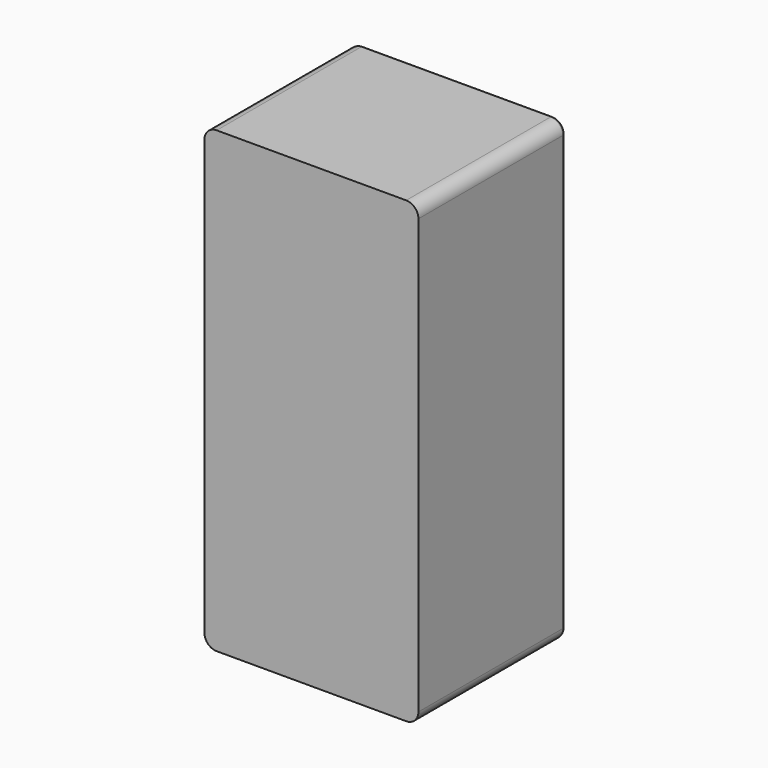
from build123d import *

# Parameters (mm, degrees)
F0_W     = 1778
F0_H     = 1524
F1_DEPTH = 3810
F2_W     = 1549.4000046253
F2_H     = 3581.4000046253
F3_DEPTH = 1422.4
F5_DEPTH = 50.8
F6_R     = 101.6
F7_R     = 25.4


with BuildPart() as f1:
    # F0 (on Top) → F1 (new body)
    with BuildSketch(Plane.XY):
        with Locations((-707.6352133521, 762)):
            Rectangle(F0_W, F0_H)
    extrude(amount=F1_DEPTH)

    # F2 (on face) → F3 (cut)
    with BuildSketch(Plane(origin=(0, 1524, 0), x_dir=(-1, 0, 0), z_dir=(0, 1, 0))):
        with Locations((707.6352133521, 1905)):
            Rectangle(F2_W, F2_H)
    extrude(amount=-F3_DEPTH, mode=Mode.SUBTRACT)

    # F4 (on face) → F5 (join)
    with BuildSketch(Plane(origin=(0, 0, 0), x_dir=(1, 0, 0), z_dir=(0, 0, -1))):
        with BuildLine():
            Line((-611.2096248517, -844.6505044289), (-707.6352133521, -762))
            Line((-707.6352133521, -762), (-804.0608018525, -844.6505044289))
            ThreePointArc((-804.0608018525, -844.6505044289), (-707.6352133521, -889), (-611.2096248517, -844.6505044289))
        make_face()
        with BuildLine():
            Line((-611.2096248517, -679.3494955711), (-707.6352133521, -762))
            Line((-707.6352133521, -762), (-611.2096248517, -844.6505044289))
            ThreePointArc((-611.2096248517, -844.6505044289), (-588.5238164592, -806.0621734623), (-580.6352133521, -762))
            ThreePointArc((-580.6352133521, -762), (-588.5238164592, -717.9378265377), (-611.2096248517, -679.3494955711))
        make_face()
        with BuildLine():
            ThreePointArc((-611.2096248517, -679.3494955711), (-707.6352133521, -635), (-804.0608018525, -679.3494955711))
            Line((-804.0608018525, -679.3494955711), (-707.6352133521, -762))
            Line((-707.6352133521, -762), (-611.2096248517, -679.3494955711))
        make_face()
        with BuildLine():
            Line((-707.6352133521, -762), (-804.0608018525, -679.3494955711))
            ThreePointArc((-804.0608018525, -679.3494955711), (-834.6352133521, -762), (-804.0608018525, -844.6505044289))
            Line((-804.0608018525, -844.6505044289), (-707.6352133521, -762))
        make_face()
        with BuildLine():
            Line((-1246.2096248517, -300.3647901432), (-1439.0608018525, -135.0637812854))
            ThreePointArc((-1439.0608018525, -135.0637812854), (-1425.285717781, -314.1398742147), (-1246.2096248517, -300.3647901432))
        make_face()
        with BuildLine():
            ThreePointArc((-1215.6352133521, -217.7142857143), (-1298.5730398898, -98.6028888214), (-1439.0608018525, -135.0637812854))
            Line((-1439.0608018525, -135.0637812854), (-1246.2096248517, -300.3647901432))
            ThreePointArc((-1246.2096248517, -300.3647901432), (-1223.5238164592, -261.7764591766), (-1215.6352133521, -217.7142857143))
        make_face()
        with BuildLine():
            ThreePointArc((54.3647866479, -217.7142857143), (46.4761835408, -173.6521122519), (23.7903751483, -135.0637812854))
            Line((23.7903751483, -135.0637812854), (-169.0608018525, -300.3647901432))
            ThreePointArc((-169.0608018525, -300.3647901432), (-28.5730398898, -336.8256826072), (54.3647866479, -217.7142857143))
        make_face()
        with BuildLine():
            Line((-169.0608018525, -300.3647901432), (23.7903751483, -135.0637812854))
            ThreePointArc((23.7903751483, -135.0637812854), (-155.285717781, -121.2886972139), (-169.0608018525, -300.3647901432))
        make_face()
        with BuildLine():
            Line((-169.0608018525, -1223.6352098568), (23.7903751483, -1388.9362187146))
            ThreePointArc((23.7903751483, -1388.9362187146), (46.4761835408, -1350.3478877481), (54.3647866479, -1306.2857142857))
            ThreePointArc((54.3647866479, -1306.2857142857), (-28.5730398898, -1187.1743173928), (-169.0608018525, -1223.6352098568))
        make_face()
        with BuildLine():
            ThreePointArc((-169.0608018525, -1223.6352098568), (-155.285717781, -1402.7113027861), (23.7903751483, -1388.9362187146))
            Line((23.7903751483, -1388.9362187146), (-169.0608018525, -1223.6352098568))
        make_face()
        with BuildLine():
            Line((-1246.2096248517, -1223.6352098568), (-1439.0608018525, -1388.9362187146))
            ThreePointArc((-1439.0608018525, -1388.9362187146), (-1298.5730398898, -1425.3971111786), (-1215.6352133521, -1306.2857142857))
            ThreePointArc((-1215.6352133521, -1306.2857142857), (-1223.5238164592, -1262.2235408234), (-1246.2096248517, -1223.6352098568))
        make_face()
        with BuildLine():
            ThreePointArc((-1246.2096248517, -1223.6352098568), (-1425.285717781, -1209.8601257853), (-1439.0608018525, -1388.9362187146))
            Line((-1439.0608018525, -1388.9362187146), (-1246.2096248517, -1223.6352098568))
        make_face()
    extrude(amount=F5_DEPTH)

    # F6
    f6_edges = [f1.edges().sort_by_distance(p)[0] for p in [
        (181.364787, 762, 0),
        (-1596.635213, 762, 0),
        (181.364787, 762, 3810),
        (-1596.635213, 762, 3810),
        (67.064789, 812.8, 3695.700002),
        (-1482.335216, 812.8, 3695.700002),
        (-1482.335216, 812.8, 114.299998),
        (67.064789, 812.8, 114.299998),
    ]]
    fillet(f6_edges, radius=F6_R)

    # F7
    f7_edges = [f1.edges().sort_by_distance(p)[0] for p in [
        (181.364787, 1524, 1905),
    ]]
    fillet(f7_edges, radius=F7_R)


solid = f1.part
